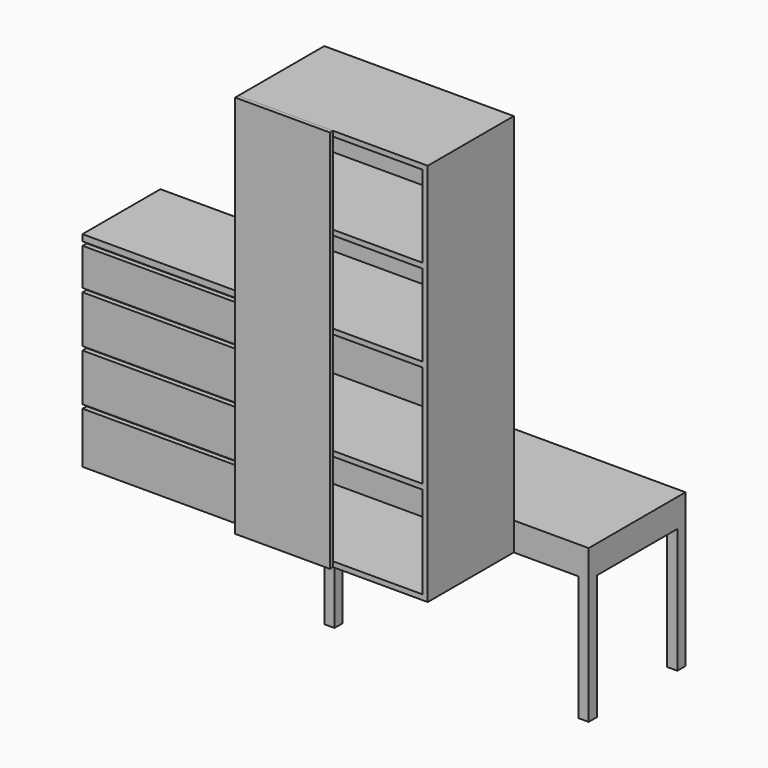
from build123d import *

# Parameters (mm, degrees)
F0_W      = 939.8
F0_H      = 1905
F1_DEPTH  = 25.4
F2_W      = 939.8
F2_H      = 1905
F2_W_2    = 889
F2_H_2    = 1854.2
F3_DEPTH  = 508
F4_W      = 469.9
F4_H      = 1905
F5_DEPTH  = 19.05
F6_W      = 1311.275
F6_H      = 600.075
F7_DEPTH  = 139.7
F8_W      = 50.8
F8_H      = 50.8
F9_DEPTH  = 619.125
F10_W     = 889
F10_H     = 25.4
F11_DEPTH = 508
F12_W     = 812.8
F12_H     = 482.6
F13_DEPTH = 1016
F14_W     = 812.8
F14_H     = 19.05
F15_DEPTH = 25.4


with BuildPart() as f1:
    # F0 (on Front) → F1 (new body)
    with BuildSketch(Plane.XZ):
        with Locations((469.9, 952.5)):
            Rectangle(F0_W, F0_H)
    extrude(amount=F1_DEPTH)

    # F2 (on face) → F3 (join)
    with BuildSketch(Plane.XZ.offset(25.4)):
        with Locations((469.9, 952.5)):
            Rectangle(F2_W, F2_H)
        with Locations((469.9, 952.5)):
            Rectangle(F2_W_2, F2_H_2, mode=Mode.SUBTRACT)
    extrude(amount=F3_DEPTH)

    # F10 (on face) → F11 (join, through all)
    with BuildSketch(Plane.XZ.offset(25.4)):
        with Locations((469.9, 495.3)):
            Rectangle(F10_W, F10_H)
        with Locations((469.9, 1028.7)):
            Rectangle(F10_W, F10_H)
        with Locations((469.9, 1460.5)):
            Rectangle(F10_W, F10_H)
    extrude(amount=F11_DEPTH)


with BuildPart() as f5:
    # F4 (on face) → F5 (new body)
    with BuildSketch(Plane.XZ.offset(533.4)):
        with Locations((234.95, 952.5)):
            Rectangle(F4_W, F4_H)
    extrude(amount=F5_DEPTH)


with BuildPart() as f7:
    # F6 (on Top) → F7 (new body)
    with BuildSketch(Plane.XY):
        with Locations((655.6375, 300.0375)):
            Rectangle(F6_W, F6_H)
    extrude(amount=F7_DEPTH)

    # F8 (on face) → F9 (join)
    with BuildSketch(Plane(origin=(0, 0, 0), x_dir=(1, 0, 0), z_dir=(0, 0, -1))):
        with Locations((25.4, -25.4)):
            Rectangle(F8_W, F8_H)
        with Locations((25.4, -574.675)):
            Rectangle(F8_W, F8_H)
        with Locations((1285.875, -574.675)):
            Rectangle(F8_W, F8_H)
        with Locations((1285.875, -25.4)):
            Rectangle(F8_W, F8_H)
    extrude(amount=F9_DEPTH)


with BuildPart() as f13:
    # F12 (on Top) → F13 (new body)
    with BuildSketch(Plane.XY):
        with Locations((-406.4, -241.3)):
            Rectangle(F12_W, F12_H)
    extrude(amount=F13_DEPTH)

    # F14 (on face) → F15 (cut)
    with BuildSketch(Plane.XZ.offset(482.6)):
        with Locations((-406.4, 974.725)):
            Rectangle(F14_W, F14_H)
        with Locations((-406.4, 771.525)):
            Rectangle(F14_W, F14_H)
        with Locations((-406.4, 517.525)):
            Rectangle(F14_W, F14_H)
        with Locations((-406.4, 263.525)):
            Rectangle(F14_W, F14_H)
    extrude(amount=-F15_DEPTH, mode=Mode.SUBTRACT)


solid = Compound([f1.part, f5.part, f7.part, f13.part])
